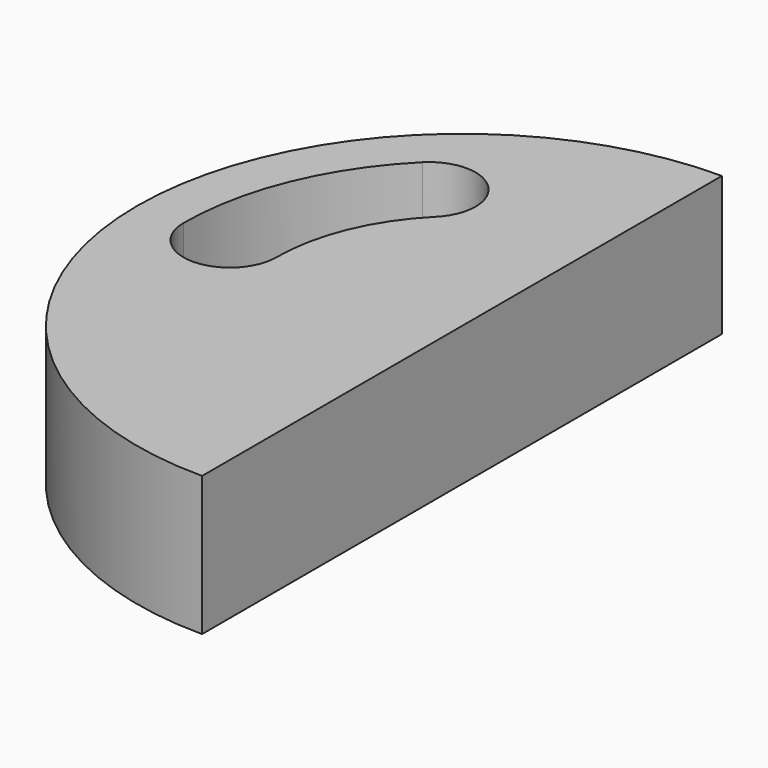
from build123d import *

# Parameters (mm, degrees)
F1_DEPTH = 19.05


with BuildPart() as f1:
    # F0 (on Top) → F1 (new body)
    with BuildSketch(Plane.XY):
        with BuildLine():
            Line((0, 38.1), (0, 44.45))
            ThreePointArc((0, 44.45), (-31.430896, 31.430896), (-44.45, 0))
            ThreePointArc((-44.45, 0), (-31.430896, -31.430896), (0, -44.45))
            Line((0, -44.45), (0, -38.1))
            Line((0, -38.1), (0, -25.4))
            Line((0, -25.4), (0, 25.4))
            Line((0, 25.4), (0, 38.1))
        make_face()
        with BuildLine():
            ThreePointArc((-25.4, 0), (-31.75, -6.35), (-38.1, 0))
            ThreePointArc((-38.1, 0), (-35.19981, 14.580239), (-26.940768, 26.940768))
            ThreePointArc((-26.940768, 26.940768), (-17.960512, 26.940768), (-17.960512, 17.960512))
            ThreePointArc((-17.960512, 17.960512), (-23.46654, 9.720159), (-25.4, 0))
        make_face(mode=Mode.SUBTRACT)
    extrude(amount=F1_DEPTH)


solid = f1.part
